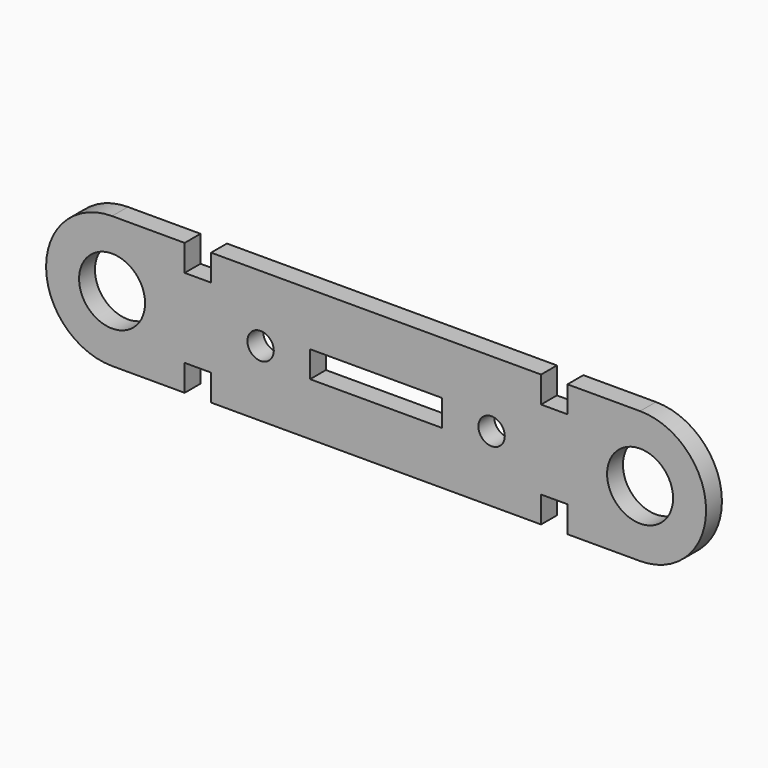
from build123d import *

# Parameters (mm, degrees)
F0_R     = 5
F0_R_2   = 2
F0_W     = 20
F0_H     = 4
F1_DEPTH = 3


with BuildPart() as f1:
    # F0 (on Front) → F1 (new body)
    with BuildSketch(Plane.XZ):
        with BuildLine():
            Line((-29, 10), (-40, 10))
            ThreePointArc((-40, 10), (-50, 0), (-40, -10))
            Line((-40, -10), (-29, -10))
            Line((-29, -10), (-29, -6))
            Line((-29, -6), (-25, -6))
            Line((-25, -6), (-25, -10))
            Line((-25, -10), (25, -10))
            Line((25, -10), (25, -6))
            Line((25, -6), (29, -6))
            Line((29, -6), (29, -10))
            Line((29, -10), (40, -10))
            ThreePointArc((40, -10), (50, 0), (40, 10))
            Line((40, 10), (29, 10))
            Line((29, 10), (29, 6))
            Line((29, 6), (25, 6))
            Line((25, 6), (25, 10))
            Line((25, 10), (-25, 10))
            Line((-25, 10), (-25, 6))
            Line((-25, 6), (-29, 6))
            Line((-29, 6), (-29, 10))
        make_face()
        with Locations((-40, 0)):
            Circle(F0_R, mode=Mode.SUBTRACT)
        with Locations((-17.5, 0)):
            Circle(F0_R_2, mode=Mode.SUBTRACT)
        Rectangle(F0_W, F0_H, mode=Mode.SUBTRACT)
        with Locations((17.5, 0)):
            Circle(F0_R_2, mode=Mode.SUBTRACT)
        with Locations((40, 0)):
            Circle(F0_R, mode=Mode.SUBTRACT)
    extrude(amount=F1_DEPTH)


solid = f1.part
